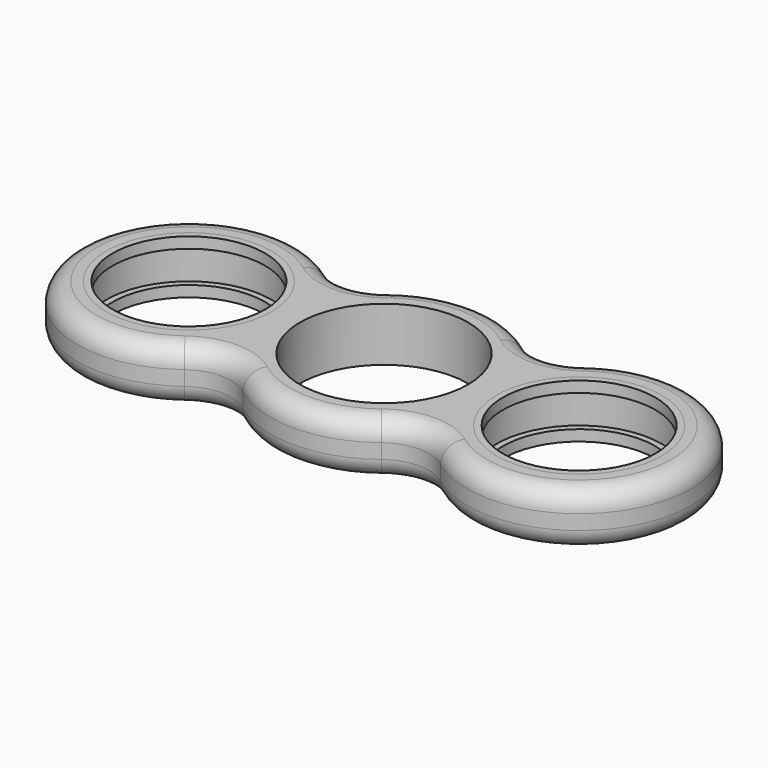
from build123d import *

# Parameters (mm, degrees)
F0_R     = 10.7315
F0_R_2   = 10.9474
F1_DEPTH = 7
F2_R     = 10.7315
F2_R_2   = 9.9187
F3_DEPTH = 1.4224
F4_R     = 10.7315
F4_R_2   = 9.9187
F5_DEPTH = 1.4224
F6_R     = 2.54


with BuildPart() as f1:
    # F0 (on Top) → F1 (new body)
    with BuildSketch(Plane.XY):
        with BuildLine():
            ThreePointArc((-9.004098, 11.69218), (-12.835509, 10.373384), (-16.684424, 11.640187))
            ThreePointArc((-16.684424, 11.640187), (-39.9415, 0), (-16.684424, -11.640187))
            ThreePointArc((-16.684424, -11.640187), (-12.835509, -10.373384), (-9.004098, -11.69218))
            ThreePointArc((-9.004098, -11.69218), (0, -14.7574), (9.004098, -11.69218))
            ThreePointArc((9.004098, -11.69218), (12.835509, -10.373384), (16.684424, -11.640187))
            ThreePointArc((16.684424, -11.640187), (39.9415, 0), (16.684424, 11.640187))
            ThreePointArc((16.684424, 11.640187), (12.835509, 10.373384), (9.004098, 11.69218))
            ThreePointArc((9.004098, 11.69218), (0, 14.7574), (-9.004098, 11.69218))
        make_face()
        with Locations((-25.4, 0)):
            Circle(F0_R, mode=Mode.SUBTRACT)
        Circle(F0_R_2, mode=Mode.SUBTRACT)
        with Locations((25.4, 0)):
            Circle(F0_R, mode=Mode.SUBTRACT)
    extrude(amount=F1_DEPTH)

    # F4 (on face) → F5 (join)
    with BuildSketch(Plane(origin=(0, 0, 0), x_dir=(1, 0, 0), z_dir=(0, 0, -1))):
        with Locations((25.4, 0)):
            Circle(F4_R)
        with Locations((25.4, 0)):
            Circle(F4_R_2, mode=Mode.SUBTRACT)
        with Locations((-25.4, 0)):
            Circle(F4_R)
        with Locations((-25.4, 0)):
            Circle(F4_R_2, mode=Mode.SUBTRACT)
    extrude(amount=-F5_DEPTH)

    # F6
    f6_edges = [f1.edges().sort_by_distance(p)[0] for p in [
        (39.9415, 0, 0),
        (39.9415, 0, 7),
    ]]
    fillet(f6_edges, radius=F6_R)


with BuildPart() as f3:
    # F2 (on face) → F3 (new body)
    with BuildSketch(Plane.XY.offset(7)):
        with Locations((-25.4, 0)):
            Circle(F2_R)
        with Locations((-25.4, 0)):
            Circle(F2_R_2, mode=Mode.SUBTRACT)
        with Locations((25.4, 0)):
            Circle(F2_R)
        with Locations((25.4, 0)):
            Circle(F2_R_2, mode=Mode.SUBTRACT)
    extrude(amount=-F3_DEPTH)


solid = Compound([f1.part, f3.part])
